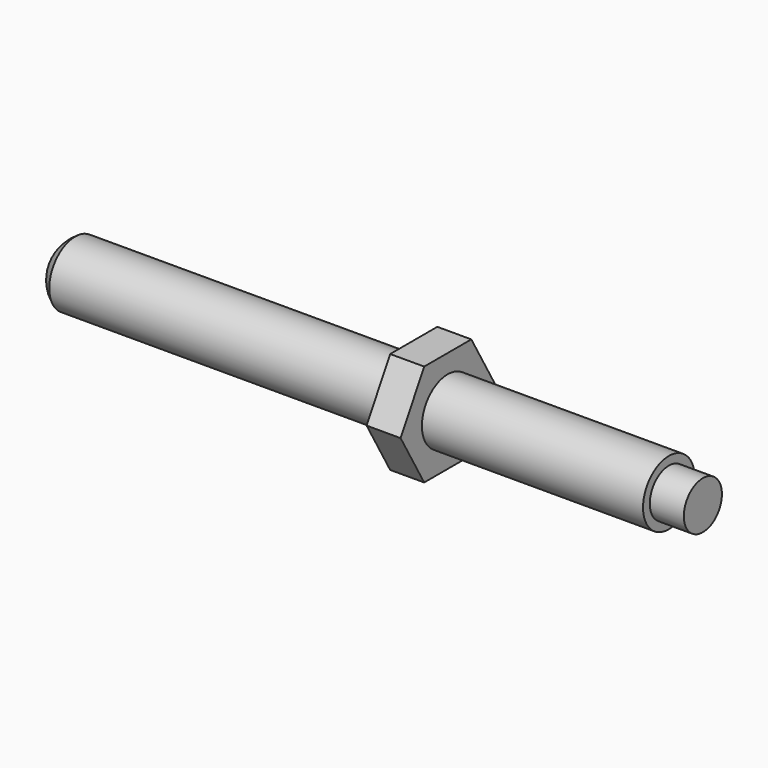
from build123d import *

# Parameters (mm, degrees)
F3_DEPTH = 2


with BuildPart() as f1:
    # F0 (on Front) → F1 (revolve)
    with BuildSketch(Plane.XZ):
        with BuildLine():
            ThreePointArc((-19.909054, 1.9), (-20.707868, 1.095464), (-21, 0))
            Line((-21, 0), (0, 0))
            Line((0, 0), (17, 0))
            Line((17, 0), (17, 1.4))
            Line((17, 1.4), (15, 1.4))
            Line((15, 1.4), (15, 1.9))
            Line((15, 1.9), (0, 1.9))
            Line((0, 1.9), (-19.909054, 1.9))
        make_face()
    revolve(axis=Axis((-10.5, 0, 0), (1, 0, 0)))

    # F2 (on Right) → F3 (join)
    with BuildSketch(Plane.YZ):
        Polygon((1.732051, -3), (3.464102, 0), (1.732051, 3), (-1.732051, 3), (-3.464102, 0), (-1.732051, -3), align=None)
    extrude(amount=F3_DEPTH)


solid = f1.part
